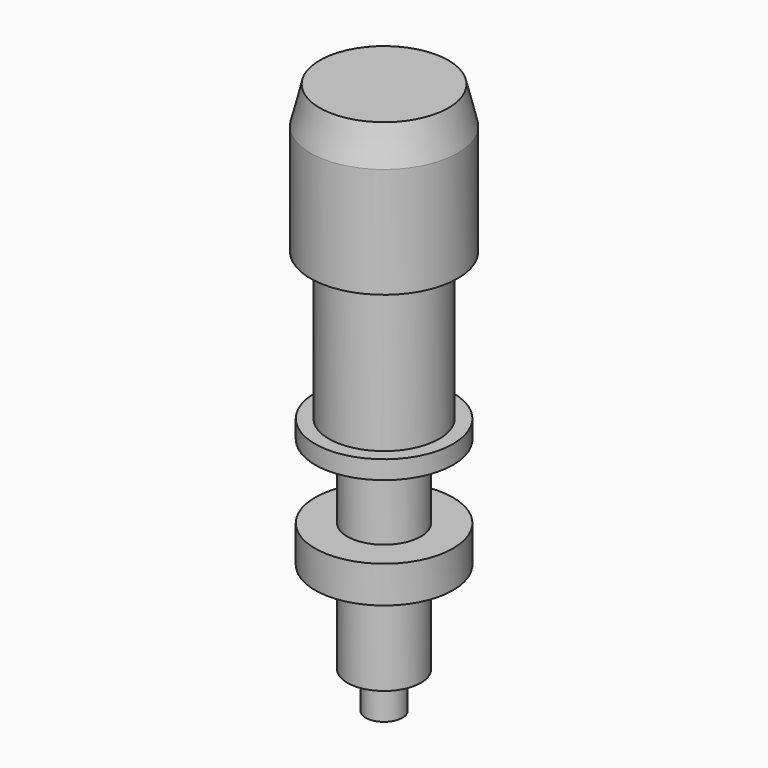
from build123d import *

# Parameters (mm, degrees)
CYLINDER020_R     = 2
CYLINDER020_DEPTH = 28
CYLINDER021_R     = 3.75
CYLINDER021_DEPTH = 2
CYLINDER022_R     = 3.75
CYLINDER022_DEPTH = 1
CYLINDER023_R     = 3
CYLINDER023_DEPTH = 8
CYLINDER024_R     = 4
CYLINDER024_DEPTH = 6
CYLINDER025_R     = 1
CYLINDER025_DEPTH = 2


with BuildPart() as cylinder020:
    # Cylinder020 → Cylinder020 (new body)
    with BuildSketch(Plane.XY):
        Circle(CYLINDER020_R)
    extrude(amount=CYLINDER020_DEPTH)


with BuildPart() as cylinder021:
    # Cylinder021 → Cylinder021 (new body)
    with BuildSketch(Plane.XY.offset(5)):
        Circle(CYLINDER021_R)
    extrude(amount=CYLINDER021_DEPTH)


with BuildPart() as cylinder022:
    # Cylinder022 → Cylinder022 (new body)
    with BuildSketch(Plane.XY.offset(11)):
        Circle(CYLINDER022_R)
    extrude(amount=CYLINDER022_DEPTH)


with BuildPart() as cylinder023:
    # Cylinder023 → Cylinder023 (new body)
    with BuildSketch(Plane.XY.offset(12)):
        Circle(CYLINDER023_R)
    extrude(amount=CYLINDER023_DEPTH)


with BuildPart() as cylinder024:
    # Cylinder024 → Cylinder024 (new body)
    with BuildSketch(Plane.XY.offset(20)):
        Circle(CYLINDER024_R)
    extrude(amount=CYLINDER024_DEPTH)


with BuildPart() as fusion002:
    # Cone → Cone (revolve)
    with BuildSketch(Plane(origin=(0, 0, 26), x_dir=(1, 0, 0), z_dir=(0, -1, 0))):
        Polygon((0, 0), (4, 0), (3.5, 2), (0, 2), align=None)
    revolve(axis=Axis((0, 0, 26), (0, 0, 1)))

    # Fusion002: union Cylinder020, Cylinder021, Cylinder022, Cylinder023, Cylinder024
    add(cylinder020.part)
    add(cylinder021.part)
    add(cylinder022.part)
    add(cylinder023.part)
    add(cylinder024.part)


with BuildPart() as mic:
    # Cylinder025 → Cylinder025 (new body)
    with BuildSketch(Plane.XY.offset(-2)):
        Circle(CYLINDER025_R)
    extrude(amount=CYLINDER025_DEPTH)

    # Fusion003: union Fusion002
    add(fusion002.part)


with BuildPart() as mic_1:
    # Fusion003 placement: moved
    add(mic.part.moved(Location((137.5, 137.5, 102))))


solid = mic_1.part
